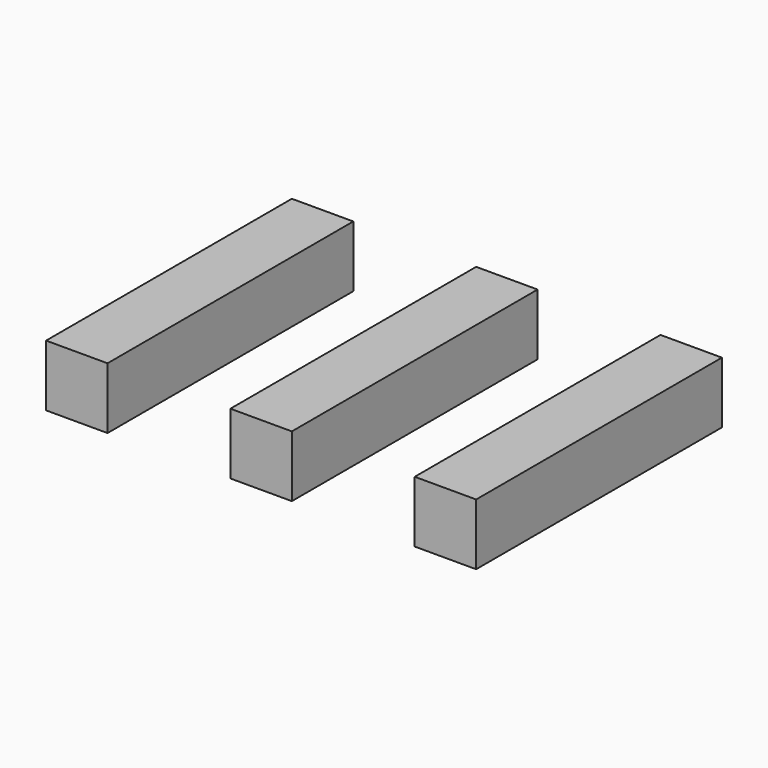
from build123d import *

# Parameters (mm, degrees)
F0_W     = 25.4
F0_H     = 25.4
F1_DEPTH = 63.5


with BuildPart() as f1:
    # F0 (on Front) → F1 (new body, symmetric)
    with BuildSketch(Plane.XZ):
        with Locations((96.544629, 16.262917)):
            Rectangle(F0_W, F0_H)
        with Locations((20.344629, 16.262917)):
            Rectangle(F0_W, F0_H)
        with Locations((-55.855371, 16.262917)):
            Rectangle(F0_W, F0_H)
    extrude(amount=F1_DEPTH, both=True)


solid = f1.part
